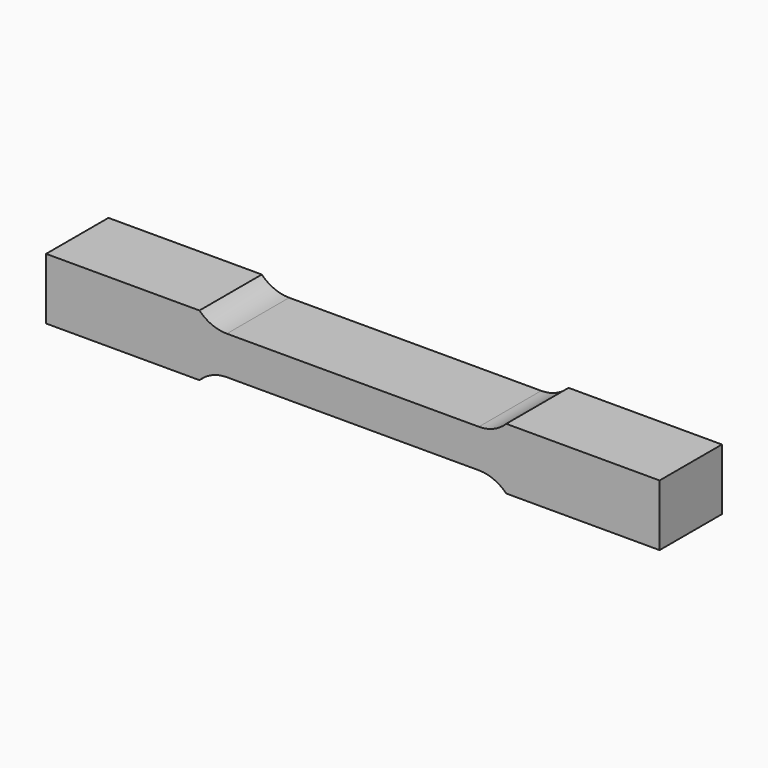
from build123d import *

# Parameters (mm, degrees)
F1_DEPTH = 25.4


with BuildPart() as f1:
    # F0 (on Front) → F1 (new body)
    with BuildSketch(Plane.XZ):
        with BuildLine():
            Line((41.073214, 6.25), (0, 6.25))
            Line((0, 6.25), (-41.073214, 6.25))
            ThreePointArc((-41.073214, 6.25), (-45.914444, 7.225569), (-50, 10))
            Line((-50, 10), (-100, 10))
            Line((-100, 10), (-100, -10))
            Line((-100, -10), (-50, -10))
            ThreePointArc((-50, -10), (-45.914444, -7.225569), (-41.073214, -6.25))
            Line((-41.073214, -6.25), (0, -6.25))
            Line((0, -6.25), (41.073214, -6.25))
            ThreePointArc((41.073214, -6.25), (45.914444, -7.225569), (50, -10))
            Line((50, -10), (100, -10))
            Line((100, -10), (100, 10))
            Line((100, 10), (50, 10))
            ThreePointArc((50, 10), (45.914444, 7.225569), (41.073214, 6.25))
        make_face()
    extrude(amount=F1_DEPTH)


solid = f1.part
